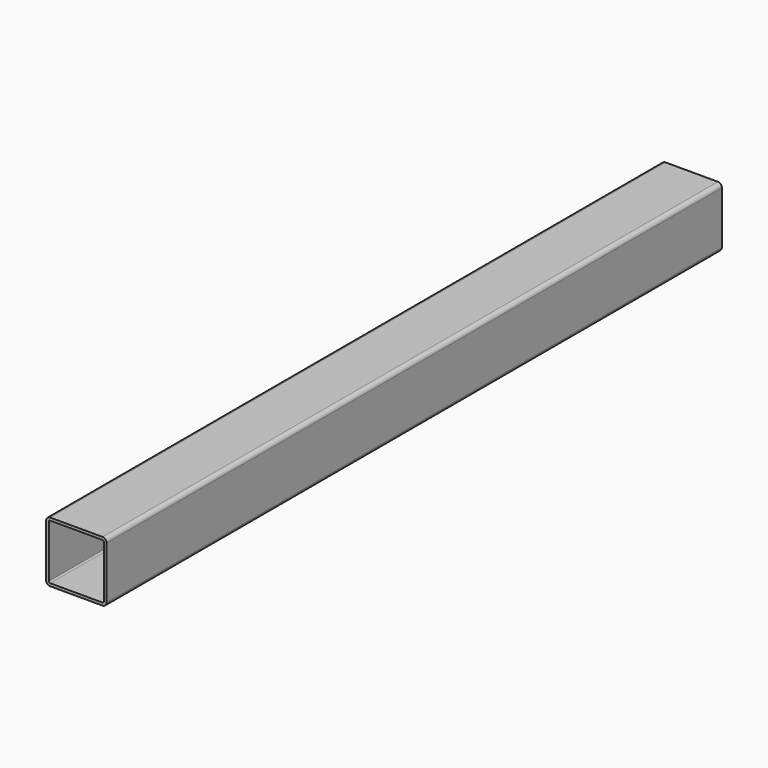
from build123d import *

# Parameters (mm, degrees)
F1_DEPTH = 1144


with BuildPart() as f1:
    # F0 (on Front) → F1 (new body)
    with BuildSketch(Plane.XZ):
        with BuildLine():
            ThreePointArc((45, 39), (43.242641, 43.242641), (39, 45))
            Line((39, 45), (-39, 45))
            ThreePointArc((-39, 45), (-43.242641, 43.242641), (-45, 39))
            Line((-45, 39), (-45, -39))
            ThreePointArc((-45, -39), (-43.242641, -43.242641), (-39, -45))
            Line((-39, -45), (39, -45))
            ThreePointArc((39, -45), (43.242641, -43.242641), (45, -39))
            Line((45, -39), (45, 39))
        make_face()
        with BuildLine():
            ThreePointArc((-41, 39), (-40.414214, 40.414214), (-39, 41))
            Line((-39, 41), (39, 41))
            ThreePointArc((39, 41), (40.414214, 40.414214), (41, 39))
            Line((41, 39), (41, -39))
            ThreePointArc((41, -39), (40.414214, -40.414214), (39, -41))
            Line((39, -41), (-39, -41))
            ThreePointArc((-39, -41), (-40.414214, -40.414214), (-41, -39))
            Line((-41, -39), (-41, 39))
        make_face(mode=Mode.SUBTRACT)
    extrude(amount=-F1_DEPTH)


solid = f1.part
